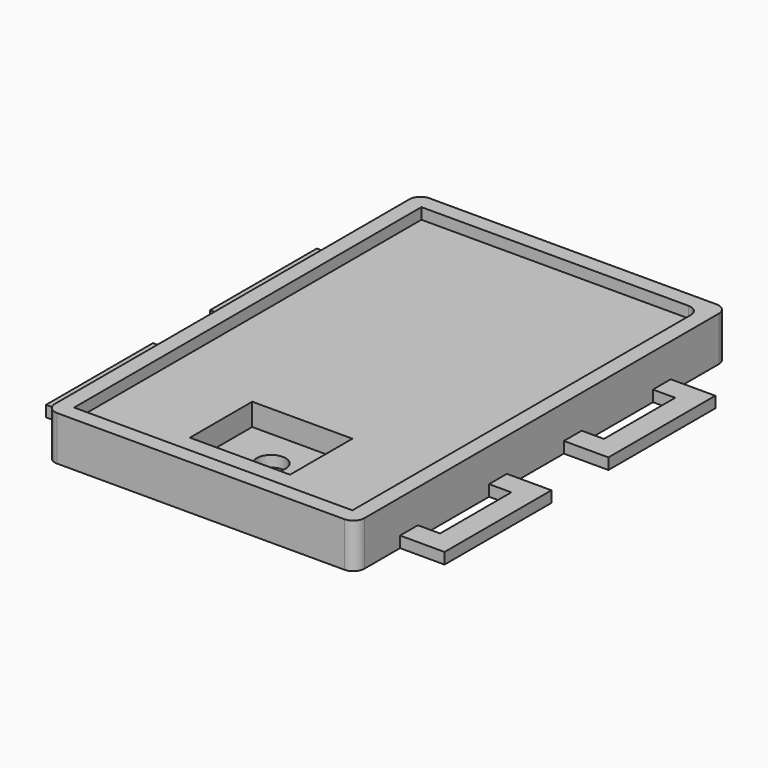
from build123d import *

# Parameters (mm, degrees)
F0_W     = 139
F0_H     = 209
F0_W_2   = 125
F0_H_2   = 195
F1_DEPTH = 20
F2_DEPTH = 5
F3_W     = 45
F3_H     = 35
F4_DEPTH = 15
F5_R     = 6.5
F6_DEPTH = 25
F7_R     = 5
F9_DEPTH = 5


with BuildPart() as f1:
    # F0 (on Top) → F1 (new body)
    with BuildSketch(Plane.XY):
        with Locations((62.5, 97.5)):
            Rectangle(F0_W, F0_H)
        with Locations((62.5, 97.5)):
            Rectangle(F0_W_2, F0_H_2, mode=Mode.SUBTRACT)
        with Locations((62.5, 97.5)):
            Rectangle(F0_W_2, F0_H_2)
    extrude(amount=-F1_DEPTH)

    # F0 (on Top) → F2 (cut)
    with BuildSketch(Plane.XY):
        with Locations((62.5, 97.5)):
            Rectangle(F0_W_2, F0_H_2)
    extrude(amount=-F2_DEPTH, mode=Mode.SUBTRACT)

    # F3 (on face) → F4 (cut)
    with BuildSketch(Plane.XY):
        with Locations((62.5, 32.5)):
            Rectangle(F3_W, F3_H)
    extrude(amount=-F4_DEPTH, mode=Mode.SUBTRACT)

    # F5 (on face) → F6 (cut)
    with BuildSketch(Plane.XY):
        with Locations((62.5, 32.5)):
            Circle(F5_R)
    extrude(amount=-F6_DEPTH, mode=Mode.SUBTRACT)

    # F7
    f7_edges = [f1.edges().sort_by_distance(p)[0] for p in [
        (-7, -7, -10),
        (125, 195, -2.5),
        (-7, 202, -10),
        (132, -7, -10),
        (132, 202, -10),
    ]]
    fillet(f7_edges, radius=F7_R)

    # F8 (on face) → F9 (join)
    with BuildSketch(Plane(origin=(0, 0, -20), x_dir=(1, 0, 0), z_dir=(0, 0, -1))):
        Polygon((-27, -170), (-7, -170), (-7, -160), (-17, -160), (-17, -120), (-7, -120), (-7, -110), (-27, -110), align=None)
        Polygon((-27, -78), (-7, -78), (-7, -68), (-17, -68), (-17, -28), (-7, -28), (-7, -18), (-27, -18), align=None)
        Polygon((132, -68), (132, -78), (152, -78), (152, -18), (132, -18), (132, -28), (142, -28), (142, -68), align=None)
        Polygon((132, -170), (152, -170), (152, -110), (132, -110), (132, -120), (142, -120), (142, -160), (132, -160), align=None)
    extrude(amount=-F9_DEPTH)


solid = f1.part
